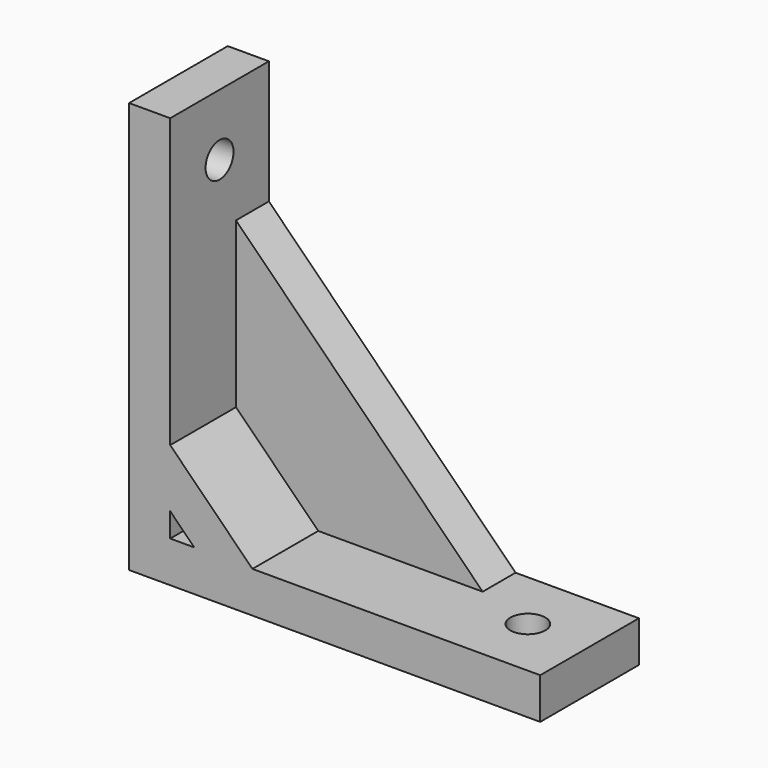
from build123d import *

# Parameters (mm, degrees)
F1_DEPTH = 15
F2_R     = 2.125
F3_DEPTH = 25
F4_R     = 2.125
F5_DEPTH = 25
F7_DEPTH = 10
F9_DEPTH = 10


with BuildPart() as f1:
    # F0 (on Front) → F1 (new body)
    with BuildSketch(Plane.XZ):
        Polygon((5, 50), (0, 50), (0, 0), (50, 0), (50, 5), (35, 5), (5, 35), align=None)
    extrude(amount=F1_DEPTH)

    # F2 (on face) → F3 (cut)
    with BuildSketch(Plane.XY.offset(5)):
        with Locations((42.5, -7.5)):
            Circle(F2_R)
    extrude(amount=-F3_DEPTH, mode=Mode.SUBTRACT)

    # F4 (on face) → F5 (cut)
    with BuildSketch(Plane.YZ.offset(5)):
        with Locations((-7.5, 42.5)):
            Circle(F4_R)
    extrude(amount=-F5_DEPTH, mode=Mode.SUBTRACT)

    # F6 (on face) → F7 (cut)
    with BuildSketch(Plane.XZ.offset(15)):
        Polygon((35, 5), (5, 35), (5, 15), (15, 5), align=None)
    extrude(amount=-F7_DEPTH, mode=Mode.SUBTRACT)

    # F8 (on face) → F9 (cut)
    with BuildSketch(Plane.XZ.offset(15)):
        Polygon((7.928932, 5), (5, 7.928932), (5, 5), align=None)
    extrude(amount=-F9_DEPTH, mode=Mode.SUBTRACT)


solid = f1.part
